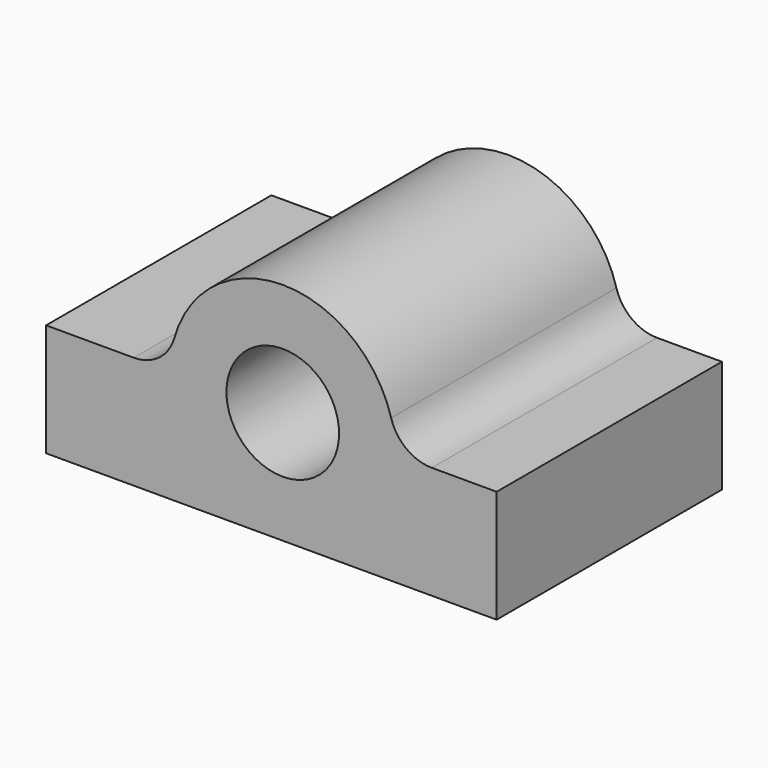
from build123d import *

# Parameters (mm, degrees)
F0_R     = 25.4
F1_DEPTH = 127


with BuildPart() as f1:
    # F0 (on Front) → F1 (new body)
    with BuildSketch(Plane.XZ):
        with BuildLine():
            Line((96.455695, -50.8), (96.455695, 0))
            Line((96.455695, 0), (67.202083, 0))
            ThreePointArc((67.202083, 0), (55.714501, 3.853357), (48.874242, 13.854545))
            ThreePointArc((48.874242, 13.854545), (0, 50.8), (-48.874242, 13.854545))
            ThreePointArc((-48.874242, 13.854545), (-55.714501, 3.853357), (-67.202083, 0))
            Line((-67.202083, 0), (-106.744305, 0))
            Line((-106.744305, 0), (-106.744305, -50.8))
            Line((-106.744305, -50.8), (96.455695, -50.8))
        make_face()
        Circle(F0_R, mode=Mode.SUBTRACT)
    extrude(amount=F1_DEPTH)


solid = f1.part
